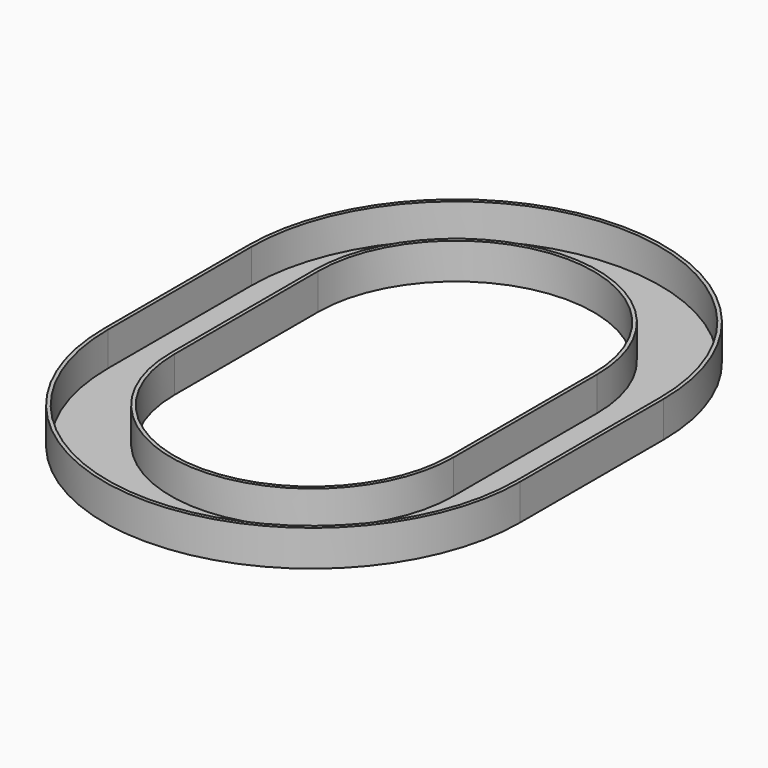
from build123d import *


with BuildPart() as f2:
    # F2: sweep along a path in F0
    with BuildLine(Plane.XY) as f2_path:
        ThreePointArc((-2000, 1000), (0, 3000), (2000, 1000))
        Line((2000, 1000), (2000, 0))
        Line((2000, 0), (2000, -1000))
        ThreePointArc((2000, -1000), (0, -3000), (-2000, -1000))
        Line((-2000, -1000), (-2000, 0))
        Line((-2000, 0), (-2000, 1000))
    # F1 (on Front) → F2 (sweep)
    with BuildSketch(Plane.XZ):
        Polygon((1535.5868196487, -20), (1925.5868196487, -20), (2315.5868196487, -20), (2315.5868196487, 380), (2275.5868196487, 380), (2275.5868196487, 0), (1575.5868196487, 0), (1575.5868196487, 380), (1535.5868196487, 380), align=None)
    sweep(path=f2_path.line)


solid = f2.part
